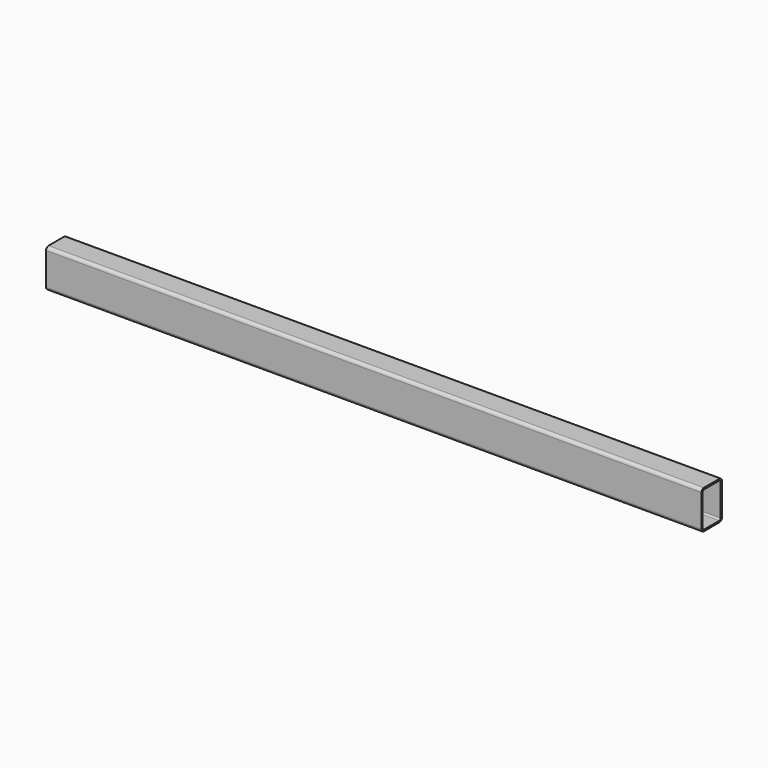
from build123d import *

# Parameters (mm, degrees)
F0_W     = 50
F0_H     = 75
F1_DEPTH = 1280
F2_R     = 6
F3_T     = -3


with BuildPart() as f1:
    # F0 (on Right) → F1 (new body)
    with BuildSketch(Plane.YZ):
        Rectangle(F0_W, F0_H)
    extrude(amount=F1_DEPTH)

    # F2
    f2_edges = [f1.edges().sort_by_distance(p)[0] for p in [
        (640, 25, 37.5),
        (640, -25, 37.5),
        (640, 25, -37.5),
        (640, -25, -37.5),
    ]]
    fillet(f2_edges, radius=F2_R)

    # F3
    f3_openings = [f1.faces().sort_by_distance(p)[0] for p in [
        (0, 0, 0),
        (1280, 0, 0),
    ]]
    offset(amount=F3_T, openings=f3_openings)


solid = f1.part
